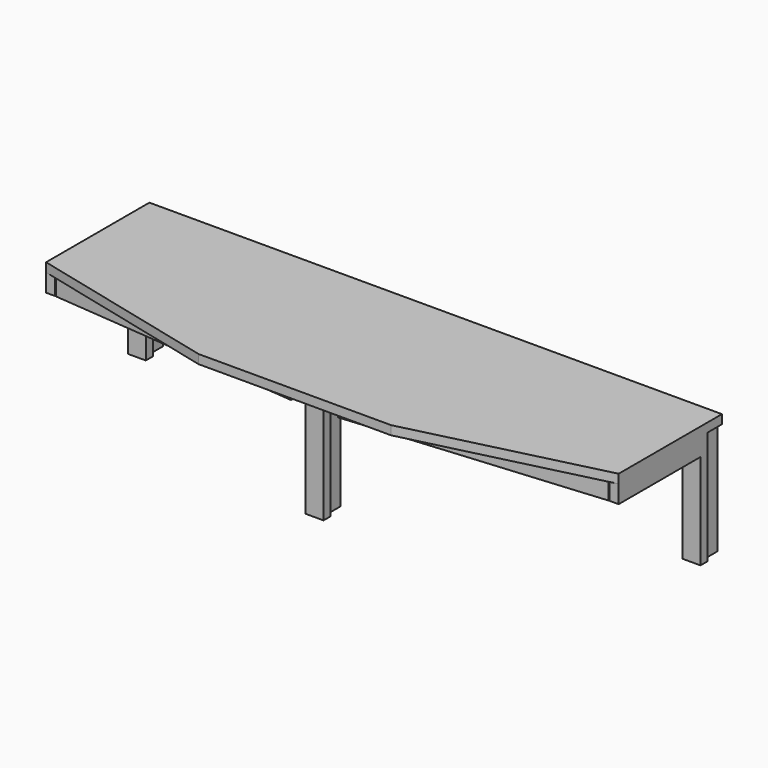
from build123d import *

# Parameters (mm, degrees)
F0_W     = 684.5037638012
F0_H     = 19.05
F0_W_2   = 1162.05
F0_W_3   = 19.05
F0_H_2   = 217.7895105028
F0_H_3   = 38.1
F0_W_4   = 9.525
F1_DEPTH = 19.05
F2_DEPTH = 241.3
F3_DEPTH = 38.1


with BuildPart() as f1:
    # F0 (on Top) → F1 (new body)
    with BuildSketch(Plane.XY):
        Polygon((-205.0596728024, 4.7625), (205.0596728024, 4.7625), (609.6, 104.4729894972), (590.55, 104.4729894972), (590.55, 322.2625), (571.5, 322.2625), (571.5, 341.3125), (581.025, 341.3125), (581.025, 360.3625), (-581.025, 360.3625), (-581.025, 341.3125), (-571.5, 341.3125), (-571.5, 322.2625), (-590.55, 322.2625), (-590.55, 104.4729894972), (-609.6, 104.4729894972), align=None)
        Polygon((-586.3576715827, 123.2287481447), (-48.5401919344, 76.1273604725), (-50.202205622, 57.15), (-588.0196852703, 104.2513876722), align=None, mode=Mode.SUBTRACT)
        Polygon((-19.05, 57.15), (-19.05, 76.2), (-9.525, 76.2), (-9.525, 114.3), (9.525, 114.3), (9.525, 76.2), (19.05, 76.2), (19.05, 57.15), align=None, mode=Mode.SUBTRACT)
        Polygon((588.0196852703, 104.2513876722), (50.202205622, 57.15), (48.5401919344, 76.1273604725), (586.3576715827, 123.2287481447), align=None, mode=Mode.SUBTRACT)
        Polygon((-17.4948285758, 85.9344063425), (-25.2456829409, 68.5324881549), (-573.0551714242, 312.5280936575), (-565.3043170591, 329.9300118451), align=None, mode=Mode.SUBTRACT)
        Polygon((25.2456829409, 68.5324881549), (17.4948285758, 85.9344063425), (565.3043170591, 329.9300118451), (573.0551714242, 312.5280936575), align=None, mode=Mode.SUBTRACT)
        with Locations((0, 242.8875)):
            Rectangle(F0_W, F0_H, mode=Mode.SUBTRACT)
        Polygon((-205.0596728024, 4.7625), (205.0596728024, 4.7625), (609.6, 104.4729894972), (590.55, 104.4729894972), (590.55, 322.2625), (571.5, 322.2625), (571.5, 341.3125), (581.025, 341.3125), (581.025, 360.3625), (-581.025, 360.3625), (-581.025, 341.3125), (-571.5, 341.3125), (-571.5, 322.2625), (-590.55, 322.2625), (-590.55, 104.4729894972), (-609.6, 104.4729894972), align=None)
        Polygon((-586.3576715827, 123.2287481447), (-48.5401919344, 76.1273604725), (-50.202205622, 57.15), (-588.0196852703, 104.2513876722), align=None, mode=Mode.SUBTRACT)
        Polygon((-19.05, 57.15), (-19.05, 76.2), (-9.525, 76.2), (-9.525, 114.3), (9.525, 114.3), (9.525, 76.2), (19.05, 76.2), (19.05, 57.15), align=None, mode=Mode.SUBTRACT)
        Polygon((588.0196852703, 104.2513876722), (50.202205622, 57.15), (48.5401919344, 76.1273604725), (586.3576715827, 123.2287481447), align=None, mode=Mode.SUBTRACT)
        Polygon((-17.4948285758, 85.9344063425), (-25.2456829409, 68.5324881549), (-573.0551714242, 312.5280936575), (-565.3043170591, 329.9300118451), align=None, mode=Mode.SUBTRACT)
        Polygon((25.2456829409, 68.5324881549), (17.4948285758, 85.9344063425), (565.3043170591, 329.9300118451), (573.0551714242, 312.5280936575), align=None, mode=Mode.SUBTRACT)
        with Locations((0, 242.8875)):
            Rectangle(F0_W, F0_H, mode=Mode.SUBTRACT)
        Polygon((-205.0596728024, 4.7625), (205.0596728024, 4.7625), (609.6, 104.4729894972), (590.55, 104.4729894972), (590.55, 322.2625), (571.5, 322.2625), (571.5, 341.3125), (581.025, 341.3125), (581.025, 360.3625), (-581.025, 360.3625), (-581.025, 341.3125), (-571.5, 341.3125), (-571.5, 322.2625), (-590.55, 322.2625), (-590.55, 104.4729894972), (-609.6, 104.4729894972), align=None)
        Polygon((-586.3576715827, 123.2287481447), (-48.5401919344, 76.1273604725), (-50.202205622, 57.15), (-588.0196852703, 104.2513876722), align=None, mode=Mode.SUBTRACT)
        Polygon((-19.05, 57.15), (-19.05, 76.2), (-9.525, 76.2), (-9.525, 114.3), (9.525, 114.3), (9.525, 76.2), (19.05, 76.2), (19.05, 57.15), align=None, mode=Mode.SUBTRACT)
        Polygon((588.0196852703, 104.2513876722), (50.202205622, 57.15), (48.5401919344, 76.1273604725), (586.3576715827, 123.2287481447), align=None, mode=Mode.SUBTRACT)
        Polygon((-17.4948285758, 85.9344063425), (-25.2456829409, 68.5324881549), (-573.0551714242, 312.5280936575), (-565.3043170591, 329.9300118451), align=None, mode=Mode.SUBTRACT)
        Polygon((25.2456829409, 68.5324881549), (17.4948285758, 85.9344063425), (565.3043170591, 329.9300118451), (573.0551714242, 312.5280936575), align=None, mode=Mode.SUBTRACT)
        with Locations((0, 242.8875)):
            Rectangle(F0_W, F0_H, mode=Mode.SUBTRACT)
        Polygon((-205.0596728024, 4.7625), (205.0596728024, 4.7625), (609.6, 104.4729894972), (590.55, 104.4729894972), (590.55, 322.2625), (571.5, 322.2625), (571.5, 341.3125), (581.025, 341.3125), (581.025, 360.3625), (-581.025, 360.3625), (-581.025, 341.3125), (-571.5, 341.3125), (-571.5, 322.2625), (-590.55, 322.2625), (-590.55, 104.4729894972), (-609.6, 104.4729894972), align=None)
        Polygon((-586.3576715827, 123.2287481447), (-48.5401919344, 76.1273604725), (-50.202205622, 57.15), (-588.0196852703, 104.2513876722), align=None, mode=Mode.SUBTRACT)
        Polygon((-19.05, 57.15), (-19.05, 76.2), (-9.525, 76.2), (-9.525, 114.3), (9.525, 114.3), (9.525, 76.2), (19.05, 76.2), (19.05, 57.15), align=None, mode=Mode.SUBTRACT)
        Polygon((588.0196852703, 104.2513876722), (50.202205622, 57.15), (48.5401919344, 76.1273604725), (586.3576715827, 123.2287481447), align=None, mode=Mode.SUBTRACT)
        Polygon((-17.4948285758, 85.9344063425), (-25.2456829409, 68.5324881549), (-573.0551714242, 312.5280936575), (-565.3043170591, 329.9300118451), align=None, mode=Mode.SUBTRACT)
        Polygon((25.2456829409, 68.5324881549), (17.4948285758, 85.9344063425), (565.3043170591, 329.9300118451), (573.0551714242, 312.5280936575), align=None, mode=Mode.SUBTRACT)
        with Locations((0, 242.8875)):
            Rectangle(F0_W, F0_H, mode=Mode.SUBTRACT)
        with Locations((0, 369.8875)):
            Rectangle(F0_W_2, F0_H)
        with Locations((0, 242.8875)):
            Rectangle(F0_W, F0_H)
        Polygon((565.3043170591, 329.9300118451), (17.4948285758, 85.9344063425), (25.2456829409, 68.5324881549), (573.0551714242, 312.5280936575), align=None)
        Polygon((-573.0551714242, 312.5280936575), (-25.2456829409, 68.5324881549), (-17.4948285758, 85.9344063425), (-565.3043170591, 329.9300118451), align=None)
        Polygon((-50.202205622, 57.15), (-48.5401919344, 76.1273604725), (-586.3576715827, 123.2287481447), (-588.0196852703, 104.2513876722), align=None)
        Polygon((48.5401919344, 76.1273604725), (50.202205622, 57.15), (588.0196852703, 104.2513876722), (586.3576715827, 123.2287481447), align=None)
        with Locations((-600.075, 213.3677447486)):
            Rectangle(F0_W_3, F0_H_2)
        with Locations((600.075, 213.3677447486)):
            Rectangle(F0_W_3, F0_H_2)
        Polygon((590.55, 322.2625), (609.6, 322.2625), (609.6, 341.3125), (600.075, 341.3125), (581.025, 341.3125), (571.5, 341.3125), (571.5, 322.2625), align=None)
        Polygon((-9.525, 76.2), (-19.05, 76.2), (-19.05, 57.15), (19.05, 57.15), (19.05, 76.2), (9.525, 76.2), align=None)
        Polygon((-609.6, 341.3125), (-609.6, 322.2625), (-590.55, 322.2625), (-571.5, 322.2625), (-571.5, 341.3125), (-581.025, 341.3125), (-600.075, 341.3125), align=None)
        Polygon((-600.075, 379.4125), (-600.075, 341.3125), (-581.025, 341.3125), (-581.025, 360.3625), (-581.025, 379.4125), align=None)
        with Locations((0, 95.25)):
            Rectangle(F0_W_3, F0_H_3)
        Polygon((581.025, 341.3125), (600.075, 341.3125), (600.075, 379.4125), (581.025, 379.4125), (581.025, 360.3625), align=None)
        with Locations((-604.8375, 360.3625)):
            Rectangle(F0_W_4, F0_H_3)
        with Locations((604.8375, 360.3625)):
            Rectangle(F0_W_4, F0_H_3)
    extrude(amount=F1_DEPTH)

    # F0 (on Top) → F2 (join)
    with BuildSketch(Plane.XY):
        Polygon((-609.6, 341.3125), (-609.6, 322.2625), (-590.55, 322.2625), (-571.5, 322.2625), (-571.5, 341.3125), (-581.025, 341.3125), (-600.075, 341.3125), align=None)
        Polygon((-9.525, 76.2), (-19.05, 76.2), (-19.05, 57.15), (19.05, 57.15), (19.05, 76.2), (9.525, 76.2), align=None)
        Polygon((590.55, 322.2625), (609.6, 322.2625), (609.6, 341.3125), (600.075, 341.3125), (581.025, 341.3125), (571.5, 341.3125), (571.5, 322.2625), align=None)
        Polygon((581.025, 341.3125), (600.075, 341.3125), (600.075, 379.4125), (581.025, 379.4125), (581.025, 360.3625), align=None)
        with Locations((0, 95.25)):
            Rectangle(F0_W_3, F0_H_3)
        Polygon((-600.075, 379.4125), (-600.075, 341.3125), (-581.025, 341.3125), (-581.025, 360.3625), (-581.025, 379.4125), align=None)
    extrude(amount=-F2_DEPTH)

    # F0 (on Top) → F3 (join)
    with BuildSketch(Plane.XY):
        with Locations((-600.075, 213.3677447486)):
            Rectangle(F0_W_3, F0_H_2)
        Polygon((-50.202205622, 57.15), (-48.5401919344, 76.1273604725), (-586.3576715827, 123.2287481447), (-588.0196852703, 104.2513876722), align=None)
        Polygon((-573.0551714242, 312.5280936575), (-25.2456829409, 68.5324881549), (-17.4948285758, 85.9344063425), (-565.3043170591, 329.9300118451), align=None)
        with Locations((0, 369.8875)):
            Rectangle(F0_W_2, F0_H)
        Polygon((565.3043170591, 329.9300118451), (17.4948285758, 85.9344063425), (25.2456829409, 68.5324881549), (573.0551714242, 312.5280936575), align=None)
        with Locations((600.075, 213.3677447486)):
            Rectangle(F0_W_3, F0_H_2)
        Polygon((48.5401919344, 76.1273604725), (50.202205622, 57.15), (588.0196852703, 104.2513876722), (586.3576715827, 123.2287481447), align=None)
        with Locations((0, 242.8875)):
            Rectangle(F0_W, F0_H)
    extrude(amount=-F3_DEPTH)


solid = f1.part
